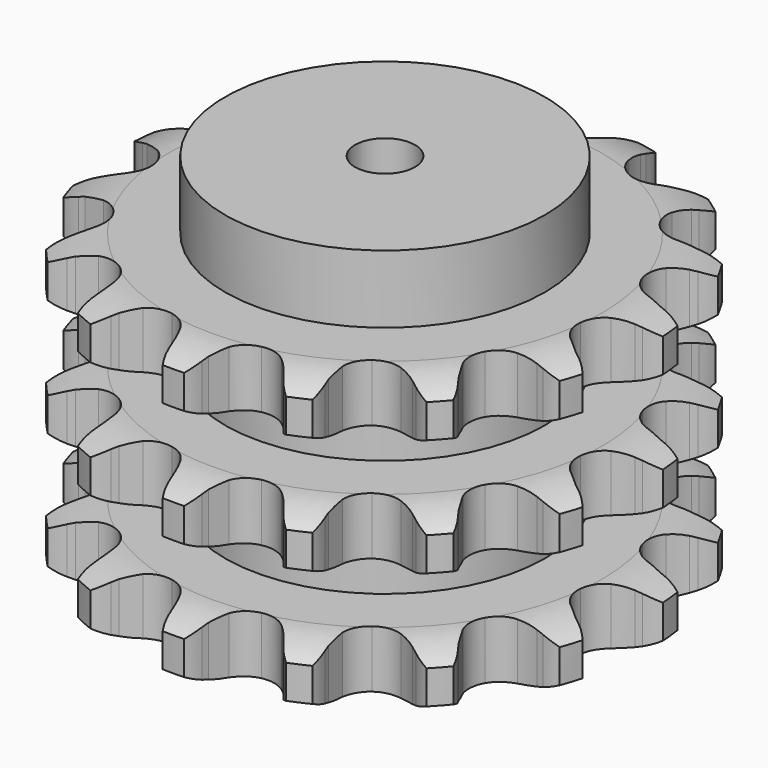
from build123d import *

# Parameters (mm, degrees)
PAD_DEPTH         = 146
SKETCH001_R       = 80
PAD001_DEPTH      = 180
SKETCH002_R       = 15
POCKET_DEPTH      = 0.001
POCKET_DEPTH_BACK = 180.001


with BuildPart() as part:
    # Sprocket → Pad (new body)
    with BuildSketch(Plane.XY):
        with BuildLine():
            ThreePointArc((-28.777778, 135.388803), (-22.324593, 130.559909), (-17.791964, 123.895294))
            Line((-17.791964, 123.895294), (-16.430128, 120.938983))
            ThreePointArc((-16.430128, 120.938983), (-14.1837, 116.766913), (-11.436577, 112.906095))
            ThreePointArc((-11.436577, 112.906095), (-6.335455, 108.884694), (0, 107.451127))
            ThreePointArc((0, 107.451127), (6.335455, 108.884694), (11.436577, 112.906095))
            ThreePointArc((11.436577, 112.906095), (14.1837, 116.766913), (16.430128, 120.938983))
            Line((16.430128, 120.938983), (17.791964, 123.895294))
            ThreePointArc((17.791964, 123.895294), (22.324593, 130.559909), (28.777778, 135.388803))
            ThreePointArc((28.777778, 135.388803), (32.708969, 128.352642), (34.138989, 120.420627))
            Line((34.138989, 120.420627), (34.180647, 117.165993))
            ThreePointArc((34.180647, 117.165993), (34.535928, 112.440914), (35.475213, 107.796525))
            ThreePointArc((35.475213, 107.796525), (38.499669, 102.04798), (43.704311, 98.161489))
            ThreePointArc((43.704311, 98.161489), (50.075121, 96.894256), (56.370879, 98.493175))
            Line((56.370879, 98.493175), (64.199985, 103.800523))
            ThreePointArc((64.199985, 103.800523), (65.400309, 104.90008), (66.646524, 105.94734))
            ThreePointArc((66.646524, 105.94734), (73.49803, 110.192182), (81.357396, 111.978849))
            ThreePointArc((81.357396, 111.978849), (82.086852, 103.952037), (80.166999, 96.124139))
            Line((80.166999, 96.124139), (78.881278, 93.133939))
            ThreePointArc((78.881278, 93.133939), (77.28398, 88.672859), (76.253016, 84.047957))
            ThreePointArc((76.253016, 84.047957), (76.67785, 77.566242), (79.851749, 71.898838))
            ThreePointArc((79.851749, 71.898838), (85.156344, 68.149921), (91.558144, 67.049891))
            Line((91.558144, 67.049891), (100.869081, 68.71401))
            ThreePointArc((100.869081, 68.71401), (102.412861, 69.23029), (103.977294, 69.680128))
            ThreePointArc((103.977294, 69.680128), (111.962989, 70.771225), (119.86958, 69.206735))
            ThreePointArc((119.86958, 69.206735), (117.271174, 61.57718), (112.333408, 55.206914))
            Line((112.333408, 55.206914), (109.942619, 52.998181))
            ThreePointArc((109.942619, 52.998181), (106.668929, 49.572461), (103.845981, 45.766733))
            ThreePointArc((103.845981, 45.766733), (101.597735, 39.672597), (102.192095, 33.204224))
            ThreePointArc((102.192095, 33.204224), (105.513262, 27.621845), (110.914174, 24.013071))
            Line((110.914174, 24.013071), (120.096996, 21.746221))
            ThreePointArc((120.096996, 21.746221), (121.7173, 21.589954), (123.329446, 21.364589))
            ThreePointArc((123.329446, 21.364589), (131.068531, 19.113281), (137.655226, 14.468147))
            ThreePointArc((137.655226, 14.468147), (132.178243, 8.55507), (125.076349, 4.743913))
            Line((125.076349, 4.743913), (121.993882, 3.698556))
            ThreePointArc((121.993882, 3.698556), (117.609852, 1.900534), (113.483031, -0.427974))
            ThreePointArc((113.483031, -0.427974), (108.950448, -5.080801), (106.862499, -11.231701))
            ThreePointArc((106.862499, -11.231701), (107.625977, -17.682299), (111.092136, -23.175827))
            Line((111.092136, -23.175827), (118.55905, -28.981688))
            ThreePointArc((118.55905, -28.981688), (119.975712, -29.783482), (121.356816, -30.645082))
            ThreePointArc((121.356816, -30.645082), (127.511133, -35.849523), (131.639032, -42.772114))
            ThreePointArc((131.639032, -42.772114), (124.230494, -45.94629), (116.192454, -46.539355))
            Line((116.192454, -46.539355), (112.951295, -46.240583))
            ThreePointArc((112.951295, -46.240583), (108.214963, -46.100012), (103.497835, -46.548681))
            ThreePointArc((103.497835, -46.548681), (97.464639, -48.955682), (93.055406, -53.725564))
            ThreePointArc((93.055406, -53.725564), (91.129184, -59.929012), (92.061258, -66.357414))
            Line((92.061258, -66.357414), (96.521167, -74.6984))
            ThreePointArc((96.521167, -74.6984), (97.489233, -76.007083), (98.40049, -77.35594))
            ThreePointArc((98.40049, -77.35594), (101.905901, -84.613619), (102.861253, -92.616688))
            ThreePointArc((102.861253, -92.616688), (94.802164, -92.503119), (87.217828, -89.775545))
            Line((87.217828, -89.775545), (84.378403, -88.184305))
            ThreePointArc((84.378403, -88.184305), (80.108724, -86.129448), (75.616923, -84.620698))
            ThreePointArc((75.616923, -84.620698), (69.126308, -84.365681), (63.158188, -86.929788))
            ThreePointArc((63.158188, -86.929788), (58.875327, -91.813455), (57.112152, -98.065201))
            Line((57.112152, -98.065201), (57.793898, -107.499079))
            ThreePointArc((57.793898, -107.499079), (58.14598, -109.088369), (58.429826, -110.691252))
            ThreePointArc((58.429826, -110.691252), (58.680214, -118.747252), (56.29783, -126.446996))
            ThreePointArc((56.29783, -126.446996), (48.981678, -123.065318), (43.162447, -117.488728))
            Line((43.162447, -117.488728), (41.215719, -114.88016))
            ThreePointArc((41.215719, -114.88016), (38.150958, -111.266319), (34.661158, -108.061028))
            ThreePointArc((34.661158, -108.061028), (28.835411, -105.188087), (22.340346, -105.103062))
            ThreePointArc((22.340346, -105.103062), (16.441391, -107.822518), (12.287837, -112.816624))
            Line((12.287837, -112.816624), (9.073538, -121.712191))
            ThreePointArc((9.073538, -121.712191), (8.748759, -123.307285), (8.356114, -124.887042))
            ThreePointArc((8.356114, -124.887042), (5.308184, -132.348406), (0, -138.413469))
            ThreePointArc((0, -138.413469), (-5.308184, -132.348406), (-8.356114, -124.887042))
            Line((-8.356114, -124.887042), (-9.073538, -121.712191))
            ThreePointArc((-9.073538, -121.712191), (-10.403454, -117.164233), (-12.287837, -112.816624))
            ThreePointArc((-12.287837, -112.816624), (-16.441391, -107.822518), (-22.340346, -105.103062))
            ThreePointArc((-22.340346, -105.103062), (-28.835411, -105.188087), (-34.661158, -108.061028))
            Line((-34.661158, -108.061028), (-41.215719, -114.88016))
            ThreePointArc((-41.215719, -114.88016), (-42.161202, -116.205251), (-43.162447, -117.488728))
            ThreePointArc((-43.162447, -117.488728), (-48.981678, -123.065318), (-56.29783, -126.446996))
            ThreePointArc((-56.29783, -126.446996), (-58.680214, -118.747252), (-58.429826, -110.691252))
            Line((-58.429826, -110.691252), (-57.793898, -107.499079))
            ThreePointArc((-57.793898, -107.499079), (-57.159015, -102.803387), (-57.112152, -98.065201))
            ThreePointArc((-57.112152, -98.065201), (-58.875327, -91.813455), (-63.158188, -86.929788))
            ThreePointArc((-63.158188, -86.929788), (-69.126308, -84.365681), (-75.616923, -84.620698))
            Line((-75.616923, -84.620698), (-84.378403, -88.184305))
            ThreePointArc((-84.378403, -88.184305), (-85.781108, -89.010273), (-87.217828, -89.775545))
            ThreePointArc((-87.217828, -89.775545), (-94.802164, -92.503119), (-102.861253, -92.616688))
            ThreePointArc((-102.861253, -92.616688), (-101.905901, -84.613619), (-98.40049, -77.35594))
            Line((-98.40049, -77.35594), (-96.521167, -74.6984))
            ThreePointArc((-96.521167, -74.6984), (-94.031263, -70.666901), (-92.061258, -66.357414))
            ThreePointArc((-92.061258, -66.357414), (-91.129184, -59.929012), (-93.055406, -53.725564))
            ThreePointArc((-93.055406, -53.725564), (-97.464639, -48.955682), (-103.497835, -46.548681))
            Line((-103.497835, -46.548681), (-112.951295, -46.240583))
            ThreePointArc((-112.951295, -46.240583), (-114.568681, -46.424611), (-116.192454, -46.539355))
            ThreePointArc((-116.192454, -46.539355), (-124.230494, -45.94629), (-131.639032, -42.772114))
            ThreePointArc((-131.639032, -42.772114), (-127.511133, -35.849523), (-121.356816, -30.645082))
            Line((-121.356816, -30.645082), (-118.55905, -28.981688))
            ThreePointArc((-118.55905, -28.981688), (-114.644652, -26.311466), (-111.092136, -23.175827))
            ThreePointArc((-111.092136, -23.175827), (-107.625977, -17.682299), (-106.862499, -11.231701))
            ThreePointArc((-106.862499, -11.231701), (-108.950448, -5.080801), (-113.483031, -0.427974))
            Line((-113.483031, -0.427974), (-121.993882, 3.698556))
            ThreePointArc((-121.993882, 3.698556), (-123.546289, 4.188288), (-125.076349, 4.743913))
            ThreePointArc((-125.076349, 4.743913), (-132.178243, 8.55507), (-137.655226, 14.468147))
            ThreePointArc((-137.655226, 14.468147), (-131.068531, 19.113281), (-123.329446, 21.364589))
            Line((-123.329446, 21.364589), (-120.096996, 21.746221))
            ThreePointArc((-120.096996, 21.746221), (-115.434938, 22.59346), (-110.914174, 24.013071))
            ThreePointArc((-110.914174, 24.013071), (-105.513262, 27.621845), (-102.192095, 33.204224))
            ThreePointArc((-102.192095, 33.204224), (-101.597735, 39.672597), (-103.845981, 45.766733))
            Line((-103.845981, 45.766733), (-109.942619, 52.998181))
            ThreePointArc((-109.942619, 52.998181), (-111.161621, 54.076995), (-112.333408, 55.206914))
            ThreePointArc((-112.333408, 55.206914), (-117.271174, 61.57718), (-119.86958, 69.206735))
            ThreePointArc((-119.86958, 69.206735), (-111.962989, 70.771225), (-103.977294, 69.680128))
            Line((-103.977294, 69.680128), (-100.869081, 68.71401))
            ThreePointArc((-100.869081, 68.71401), (-96.265475, 67.591772), (-91.558144, 67.049891))
            ThreePointArc((-91.558144, 67.049891), (-85.156344, 68.149921), (-79.851749, 71.898838))
            ThreePointArc((-79.851749, 71.898838), (-76.67785, 77.566242), (-76.253016, 84.047957))
            Line((-76.253016, 84.047957), (-78.881278, 93.133939))
            ThreePointArc((-78.881278, 93.133939), (-79.556098, 94.615297), (-80.166999, 96.124139))
            ThreePointArc((-80.166999, 96.124139), (-82.086852, 103.952037), (-81.357396, 111.978849))
            ThreePointArc((-81.357396, 111.978849), (-73.49803, 110.192182), (-66.646524, 105.94734))
            Line((-66.646524, 105.94734), (-64.199985, 103.800523))
            ThreePointArc((-64.199985, 103.800523), (-60.450837, 100.902853), (-56.370879, 98.493175))
            ThreePointArc((-56.370879, 98.493175), (-50.075121, 96.894256), (-43.704311, 98.161489))
            ThreePointArc((-43.704311, 98.161489), (-38.499669, 102.04798), (-35.475213, 107.796525))
            Line((-35.475213, 107.796525), (-34.180647, 117.165993))
            ThreePointArc((-34.180647, 117.165993), (-34.194604, 118.793755), (-34.138989, 120.420627))
            ThreePointArc((-34.138989, 120.420627), (-32.708969, 128.352642), (-28.777778, 135.388803))
        make_face()
    extrude(amount=PAD_DEPTH)

    # Sketch → Groove (revolve, cut)
    with BuildSketch(Plane.XZ):
        with BuildLine():
            ThreePointArc((108.4, 0), (120.769317, 1.522732), (132.4, 6))
            Line((132.4, 6), (132.4, 22.8))
            ThreePointArc((132.4, 22.8), (120.769317, 27.277268), (108.4, 28.8))
            Line((80, 28.8), (108.4, 28.8))
            Line((80, 28.8), (80, 58.6))
            Line((80, 58.6), (108.4, 58.6))
            ThreePointArc((108.4, 58.6), (120.769317, 60.122732), (132.4, 64.6))
            Line((132.4, 81.4), (132.4, 64.6))
            ThreePointArc((132.4, 81.4), (120.769317, 85.877268), (108.4, 87.4))
            Line((80, 87.4), (108.4, 87.4))
            Line((80, 117.2), (80, 87.4))
            Line((108.4, 117.2), (80, 117.2))
            ThreePointArc((108.4, 117.2), (120.769317, 118.722732), (132.4, 123.2))
            Line((132.4, 123.2), (132.4, 140))
            ThreePointArc((132.4, 140), (120.769317, 144.477268), (108.4, 146))
            Line((108.4, 146), (142.4, 146))
            Line((142.4, 146), (142.4, 0))
            Line((108.4, 0), (142.4, 0))
        make_face()
    revolve(axis=Axis((0, 0, 0), (0, 0, 1)), mode=Mode.SUBTRACT)

    # Sketch001 → Pad001 (join)
    with BuildSketch(Plane.XY):
        Circle(SKETCH001_R)
    extrude(amount=PAD001_DEPTH)

    # Sketch002 → Pocket (cut, two sides)
    with BuildSketch(Plane.XY) as pocket_sk:
        Circle(SKETCH002_R)
    extrude(amount=-POCKET_DEPTH, mode=Mode.SUBTRACT)
    extrude(pocket_sk.sketch, amount=POCKET_DEPTH_BACK, mode=Mode.SUBTRACT)


solid = part.part
